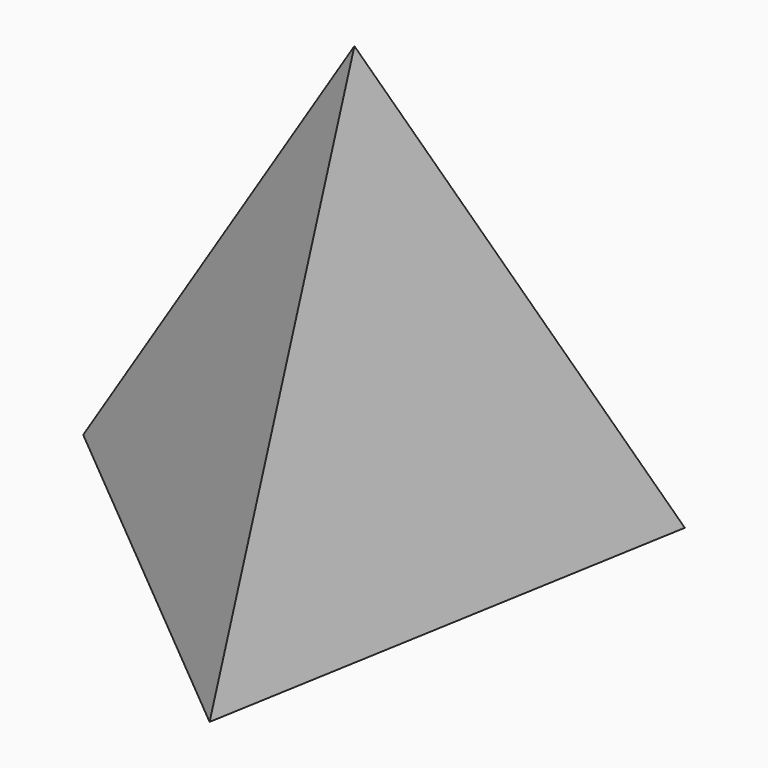
from build123d import *


with BuildPart() as f3:
    # F0 (on Top) → F3 section 0
    with BuildSketch(Plane.XY, mode=Mode.PRIVATE) as f3_s0:
        Polygon((40.000481, -108.993395), (74.390808, 89.138131), (-114.39129, 19.855265), align=None)
    loft([f3_s0.sketch, Vertex(11.581555, 0, 187.96)])


solid = f3.part
